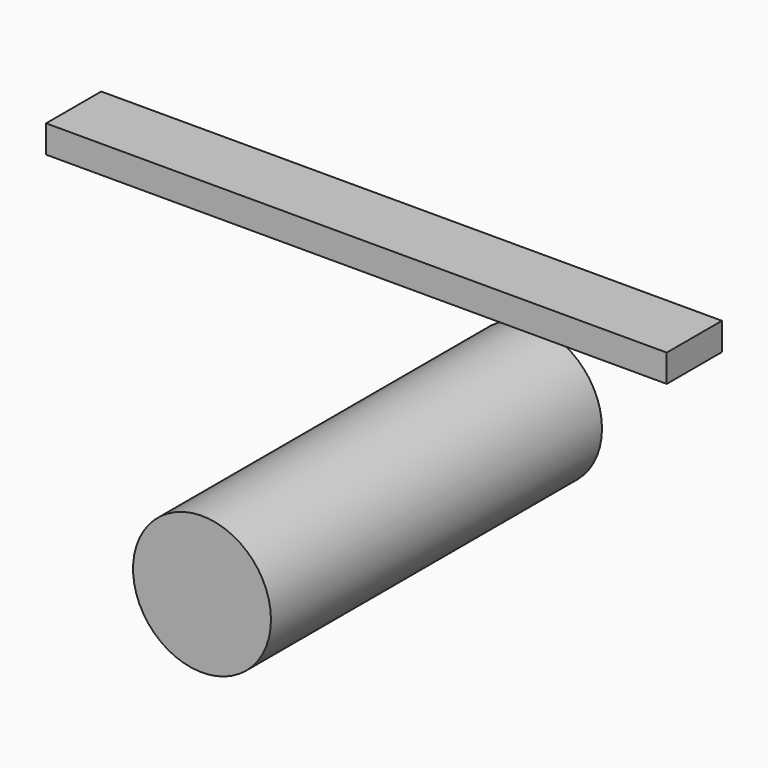
from build123d import *

# Parameters (mm, degrees)
F0_R     = 25.4
F1_DEPTH = 152.4
F2_W     = 228.6
F2_H     = 10.16
F3_DEPTH = 25.4


with BuildPart() as f1:
    # F0 (on Front) → F1 (new body)
    with BuildSketch(Plane.XZ):
        Circle(F0_R)
    extrude(amount=F1_DEPTH)


with BuildPart() as f3:
    # F2 (on Front) → F3 (new body)
    with BuildSketch(Plane.XZ):
        with Locations((-44.729739, 44.248542)):
            Rectangle(F2_W, F2_H)
    extrude(amount=F3_DEPTH)


solid = Compound([f1.part, f3.part])
